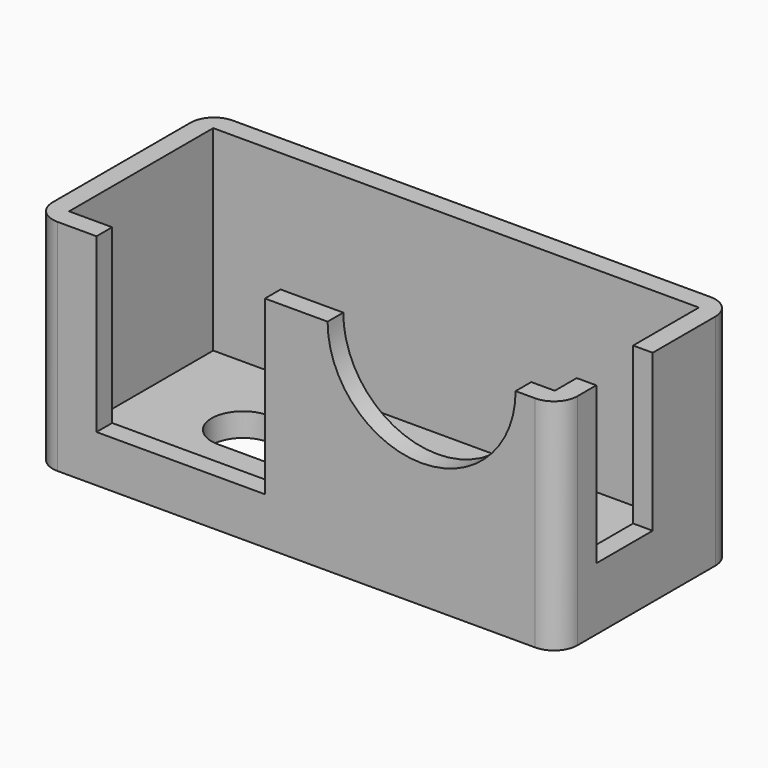
from build123d import *

# Parameters (mm, degrees)
F1_DEPTH = 25
F0_W     = 62
F0_H     = 23
F2_DEPTH = 3
F4_DEPTH = 25
F5_W     = 21.5
F5_H     = 22
F6_DEPTH = 3
F7_W     = 9
F7_H     = 20
F8_DEPTH = 5
F9_R     = 3


with BuildPart() as f1:
    # F0 (on Top) → F1 (new body)
    with BuildSketch(Plane.XY):
        Polygon((-2.5, 23), (0, 23), (62, 23), (62, 25.5), (-2.5, 25.5), align=None)
        Polygon((0, -2.5), (0, 0), (0, 23), (-2.5, 23), (-2.5, -2.5), align=None)
        Polygon((62, 0), (0, 0), (0, -2.5), (64.5, -2.5), (64.5, 0), align=None)
        Polygon((62, 23), (62, 0), (64.5, 0), (64.5, 25.5), (62, 25.5), align=None)
    extrude(amount=F1_DEPTH)

    # F0 (on Top) → F2 (join)
    with BuildSketch(Plane.XY):
        Polygon((62, 23), (62, 0), (64.5, 0), (64.5, 25.5), (62, 25.5), align=None)
        with Locations((31, 11.5)):
            Rectangle(F0_W, F0_H)
        Polygon((62, 0), (0, 0), (0, -2.5), (64.5, -2.5), (64.5, 0), align=None)
        Polygon((0, -2.5), (0, 0), (0, 23), (-2.5, 23), (-2.5, -2.5), align=None)
        Polygon((-2.5, 23), (0, 23), (62, 23), (62, 25.5), (-2.5, 25.5), align=None)
    extrude(amount=-F2_DEPTH)

    # F3 (on face) → F4 (cut)
    with BuildSketch(Plane(origin=(0, 0, -3), x_dir=(1, 0, 0), z_dir=(0, 0, -1))):
        with BuildLine():
            Line((49, -7.5), (31, -7.5))
            Line((31, -7.5), (13, -7.5))
            ThreePointArc((13, -7.5), (9, -11.5), (13, -15.5))
            Line((13, -15.5), (31, -15.5))
            Line((31, -15.5), (49, -15.5))
            ThreePointArc((49, -15.5), (53, -11.5), (49, -7.5))
        make_face()
    extrude(amount=-F4_DEPTH, mode=Mode.SUBTRACT)

    # F5 (on face) → F6 (cut)
    with BuildSketch(Plane.XZ.offset(2.5)):
        with Locations((16.25, 14)):
            Rectangle(F5_W, F5_H)
        with BuildLine():
            Line((59, 25), (35, 25))
            ThreePointArc((35, 25), (47, 13), (59, 25))
        make_face()
    extrude(amount=-F6_DEPTH, mode=Mode.SUBTRACT)

    # F7 (on face) → F8 (cut)
    with BuildSketch(Plane.YZ.offset(64.5)):
        with Locations((8, 15)):
            Rectangle(F7_W, F7_H)
    extrude(amount=-F8_DEPTH, mode=Mode.SUBTRACT)

    # F9
    f9_edges = [f1.edges().sort_by_distance(p)[0] for p in [
        (64.5, -2.5, 11),
        (64.5, 25.5, 11),
        (-2.5, 25.5, 11),
        (-2.5, -2.5, 11),
    ]]
    fillet(f9_edges, radius=F9_R)


solid = f1.part
